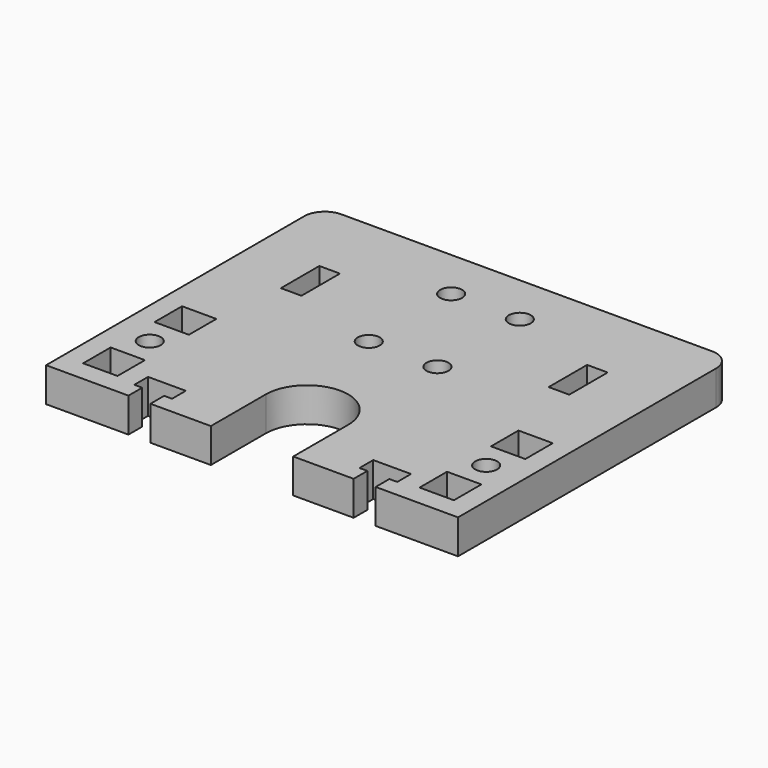
from build123d import *

# Parameters (mm, degrees)
F1_W     = 5
F1_H     = 5
F1_R     = 1.6
F1_W_2   = 3
F1_H_2   = 7
F2_DEPTH = 5


with BuildPart() as f2:
    # F1 (on Top) → F2 (new body)
    with BuildSketch(Plane.XY):
        with BuildLine():
            ThreePointArc((30, 12), (29.1213203436, 14.1213203436), (27, 15))
            Line((27, 15), (-27, 15))
            ThreePointArc((-27, 15), (-29.1213203436, 14.1213203436), (-30, 12))
            Line((-30, 12), (-30, -35))
            Line((-30, -35), (-18, -35))
            Line((-18, -35), (-18, -32.5))
            Line((-18, -32.5), (-19.15, -32.5))
            Line((-19.15, -32.5), (-19.15, -30))
            Line((-19.15, -30), (-16.4, -30))
            Line((-16.4, -30), (-13.65, -30))
            Line((-13.65, -30), (-13.65, -32.5))
            Line((-13.65, -32.5), (-14.8, -32.5))
            Line((-14.8, -32.5), (-14.8, -35))
            Line((-14.8, -35), (-6, -35))
            Line((-6, -35), (-6, -25))
            ThreePointArc((-6, -25), (0, -19), (6, -25))
            Line((6, -25), (6, -35))
            Line((6, -35), (14.8, -35))
            Line((14.8, -35), (14.8, -32.5))
            Line((14.8, -32.5), (13.65, -32.5))
            Line((13.65, -32.5), (13.65, -30))
            Line((13.65, -30), (16.4, -30))
            Line((16.4, -30), (19.15, -30))
            Line((19.15, -30), (19.15, -32.5))
            Line((19.15, -32.5), (18, -32.5))
            Line((18, -32.5), (18, -35))
            Line((18, -35), (30, -35))
            Line((30, -35), (30, 12))
        make_face()
        with Locations((-24.5, -29.5)):
            Rectangle(F1_W, F1_H, mode=Mode.SUBTRACT)
        with Locations((-24.5, -23)):
            Circle(F1_R, mode=Mode.SUBTRACT)
        with Locations((-24.5, -16.5)):
            Rectangle(F1_W, F1_H, mode=Mode.SUBTRACT)
        with Locations((24.5, -29.5)):
            Rectangle(F1_W, F1_H, mode=Mode.SUBTRACT)
        with Locations((24.5, -23)):
            Circle(F1_R, mode=Mode.SUBTRACT)
        with Locations((24.5, -16.5)):
            Rectangle(F1_W, F1_H, mode=Mode.SUBTRACT)
        with Locations((-19.5, 0)):
            Rectangle(F1_W_2, F1_H_2, mode=Mode.SUBTRACT)
        with Locations((-5, -7.5)):
            Circle(F1_R, mode=Mode.SUBTRACT)
        with Locations((-5, 7.5)):
            Circle(F1_R, mode=Mode.SUBTRACT)
        with Locations((5, -7.5)):
            Circle(F1_R, mode=Mode.SUBTRACT)
        with Locations((19.5, 0)):
            Rectangle(F1_W_2, F1_H_2, mode=Mode.SUBTRACT)
        with Locations((5, 7.5)):
            Circle(F1_R, mode=Mode.SUBTRACT)
    extrude(amount=F2_DEPTH)


solid = f2.part
